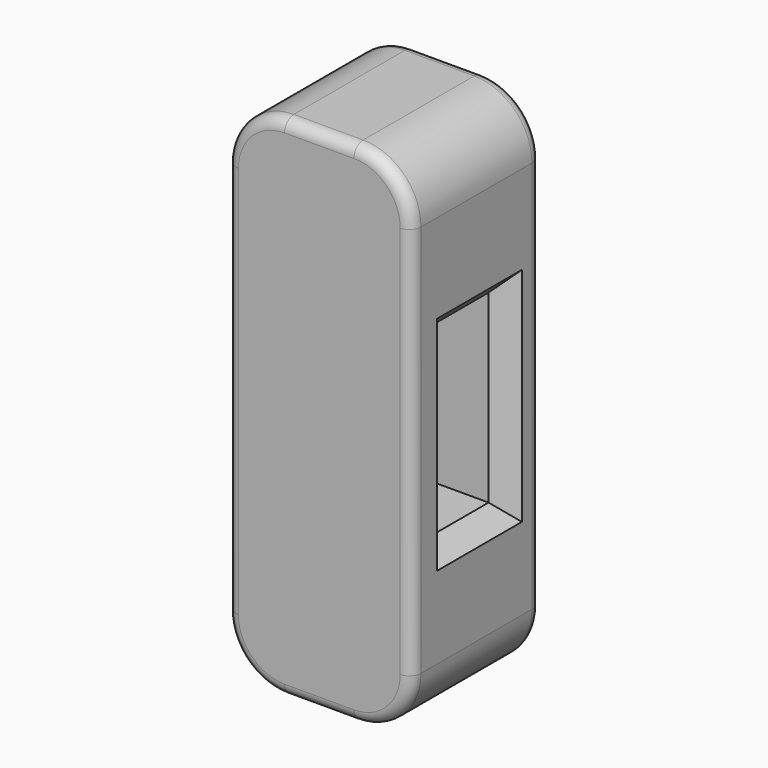
from build123d import *

# Parameters (mm, degrees)
F1_DEPTH = 44.45
F2_R     = 3.175
F3_W     = 19.05
F3_H     = 50.8
F4_DEPTH = 50.801
F5_SIZE  = 5.08


with BuildPart() as f1:
    # F0 (on Front) → F1 (new body)
    with BuildSketch(Plane.XZ):
        with BuildLine():
            ThreePointArc((25.4, 53.975), (20.75032, 65.20032), (9.525, 69.85))
            Line((9.525, 69.85), (-9.525, 69.85))
            ThreePointArc((-9.525, 69.85), (-20.75032, 65.20032), (-25.4, 53.975))
            Line((-25.4, 53.975), (-25.4, -53.975))
            ThreePointArc((-25.4, -53.975), (-20.75032, -65.20032), (-9.525, -69.85))
            Line((-9.525, -69.85), (9.525, -69.85))
            ThreePointArc((9.525, -69.85), (20.75032, -65.20032), (25.4, -53.975))
            Line((25.4, -53.975), (25.4, 53.975))
        make_face()
    extrude(amount=F1_DEPTH)

    # F2
    f2_edges = [f1.edges().sort_by_distance(p)[0] for p in [
        (-25.4, -44.45, 0),
        (-20.75032, 0, 65.20032),
    ]]
    fillet(f2_edges, radius=F2_R)

    # F3 (on face) → F4 (cut, through all)
    with BuildSketch(Plane.YZ.offset(25.4)):
        with Locations((-21.234149, -0.94333)):
            Rectangle(F3_W, F3_H)
    extrude(amount=-F4_DEPTH, mode=Mode.SUBTRACT)

    # F5
    f5_edges = [f1.edges().sort_by_distance(p)[0] for p in [
        (-25.4, -11.709149, -0.94333),
        (-25.4, -21.234149, 24.45667),
        (-25.4, -30.759149, -0.94333),
        (-25.4, -21.234149, -26.34333),
        (25.4, -21.234149, 24.45667),
        (25.4, -11.709149, -0.94333),
        (25.4, -21.234149, -26.34333),
        (25.4, -30.759149, -0.94333),
    ]]
    chamfer(f5_edges, length=F5_SIZE)


solid = f1.part
